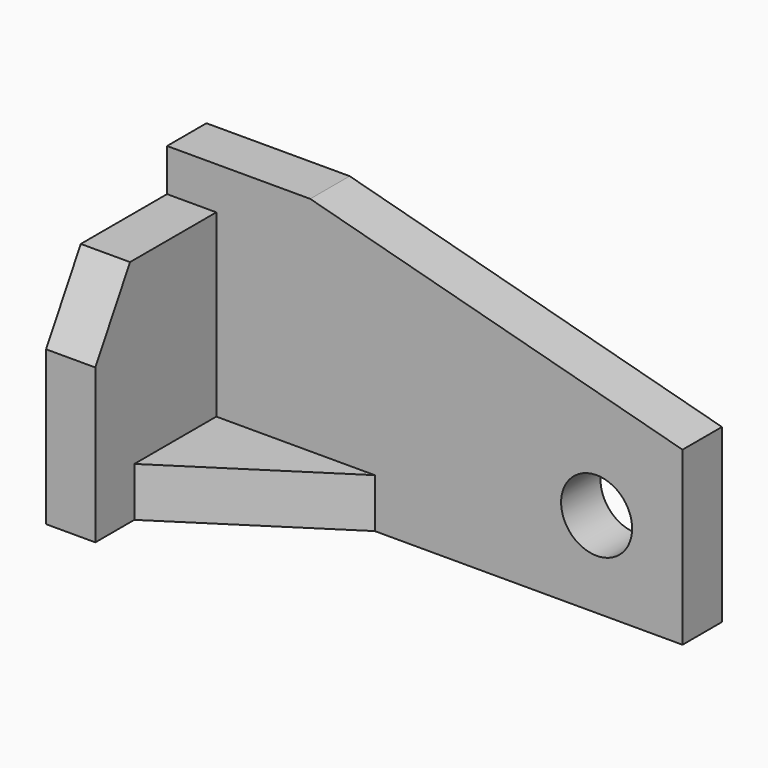
from build123d import *

# Parameters (mm, degrees)
F0_W      = 31.75
F0_H      = 60.198
F0_R      = 7.874
F1_DEPTH  = 10.922
F2_DEPTH  = 10.922
F3_W      = 10.922
F3_H      = 50.8
F4_DEPTH  = 33.528
F6_DEPTH  = 10.922
F7_W      = 33.528
F7_H      = 10.922
F8_DEPTH  = 52.578
F10_DEPTH = 10.922


with BuildPart() as f1:
    # F0 (on Front) → F1 (new body)
    with BuildSketch(Plane.XZ):
        with Locations((-44.894285, -4.041589)):
            Rectangle(F0_W, F0_H)
        Polygon((-29.019285, 26.057411), (-29.019285, -34.140589), (53.525416, -34.140589), (53.525416, 3.939625), align=None)
        with Locations((34.475416, -15.090589)):
            Circle(F0_R, mode=Mode.SUBTRACT)
    extrude(amount=F1_DEPTH)

    # F0 (on Front) → F2 (cut)
    with BuildSketch(Plane.XZ):
        with Locations((-44.894285, -4.041589)):
            Rectangle(F0_W, F0_H)
        Polygon((-29.019285, 26.057411), (-29.019285, -34.140589), (53.525416, -34.140589), (53.525416, 3.939625), align=None)
        with Locations((34.475416, -15.090589)):
            Circle(F0_R, mode=Mode.SUBTRACT)
    extrude(amount=-F2_DEPTH, mode=Mode.SUBTRACT)

    # F3 (on face) → F4 (join)
    with BuildSketch(Plane.XZ.offset(10.922)):
        with Locations((-55.308285, -8.740589)):
            Rectangle(F3_W, F3_H)
    extrude(amount=F4_DEPTH)

    # F5 (on face) → F6 (cut)
    with BuildSketch(Plane(origin=(-60.769285, 0, 0), x_dir=(0, -1, 0), z_dir=(-1, 0, 0))):
        Polygon((34.831685, 16.659411), (44.45, 0), (44.45, 16.659411), align=None)
    extrude(amount=-F6_DEPTH, mode=Mode.SUBTRACT)

    # F7 (on face) → F8 (join)
    with BuildSketch(Plane.YZ.offset(-49.847285)):
        with Locations((-27.686, -28.679589)):
            Rectangle(F7_W, F7_H)
    extrude(amount=F8_DEPTH)

    # F9 (on face) → F10 (cut)
    with BuildSketch(Plane.XY.offset(-23.218589)):
        Polygon((-14.706187, -10.922), (-49.847285, -33.637185), (-49.847285, -44.45), (2.730715, -44.45), (2.730715, -10.922), align=None)
    extrude(amount=-F10_DEPTH, mode=Mode.SUBTRACT)


solid = f1.part
